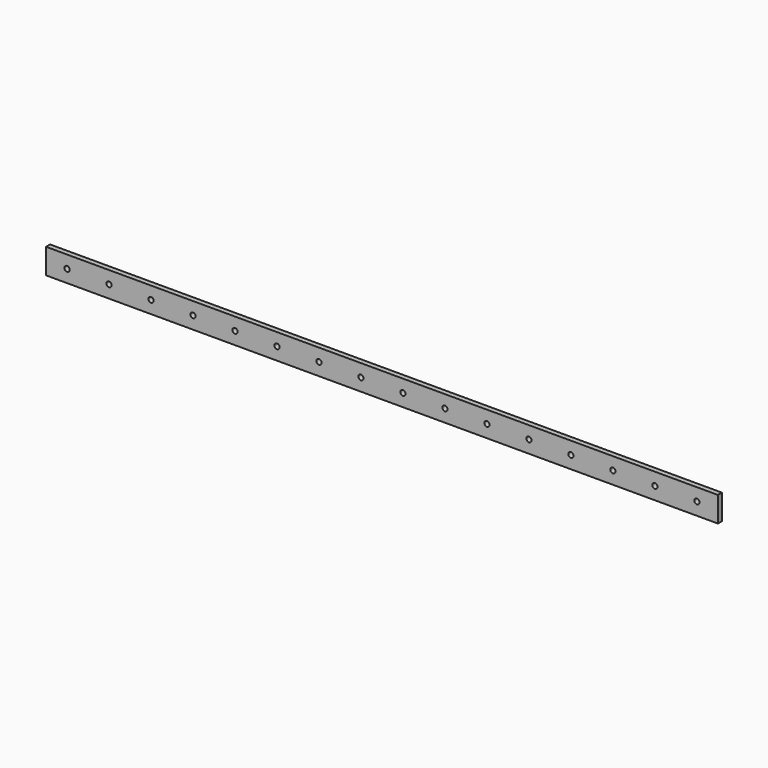
from build123d import *

# Parameters (mm, degrees)
F0_W     = 400
F0_H     = 15
F0_R     = 1.55
F1_DEPTH = 3


with BuildPart() as f1:
    # F0 (on Front) → F1 (new body)
    with BuildSketch(Plane.XZ):
        Rectangle(F0_W, F0_H)
        with Locations((-187.5, 0)):
            Circle(F0_R, mode=Mode.SUBTRACT)
        with Locations((-162.5, 0)):
            Circle(F0_R, mode=Mode.SUBTRACT)
        with Locations((-137.5, 0)):
            Circle(F0_R, mode=Mode.SUBTRACT)
        with Locations((-112.5, 0)):
            Circle(F0_R, mode=Mode.SUBTRACT)
        with Locations((-87.5, 0)):
            Circle(F0_R, mode=Mode.SUBTRACT)
        with Locations((-62.5, 0)):
            Circle(F0_R, mode=Mode.SUBTRACT)
        with Locations((-37.5, 0)):
            Circle(F0_R, mode=Mode.SUBTRACT)
        with Locations((-12.5, 0)):
            Circle(F0_R, mode=Mode.SUBTRACT)
        with Locations((12.5, 0)):
            Circle(F0_R, mode=Mode.SUBTRACT)
        with Locations((37.5, 0)):
            Circle(F0_R, mode=Mode.SUBTRACT)
        with Locations((62.5, 0)):
            Circle(F0_R, mode=Mode.SUBTRACT)
        with Locations((87.5, 0)):
            Circle(F0_R, mode=Mode.SUBTRACT)
        with Locations((112.5, 0)):
            Circle(F0_R, mode=Mode.SUBTRACT)
        with Locations((137.5, 0)):
            Circle(F0_R, mode=Mode.SUBTRACT)
        with Locations((162.5, 0)):
            Circle(F0_R, mode=Mode.SUBTRACT)
        with Locations((187.5, 0)):
            Circle(F0_R, mode=Mode.SUBTRACT)
    extrude(amount=F1_DEPTH)


solid = f1.part
